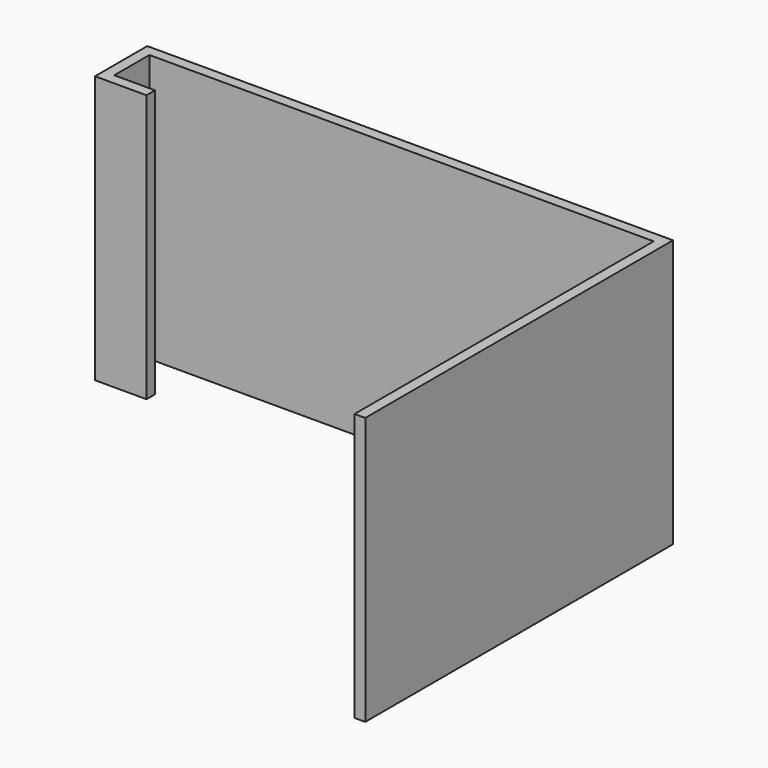
from build123d import *

# Parameters (mm, degrees)
F0_W     = 2
F0_H     = 2
F0_W_2   = 94.2241554609
F0_H_2   = 69.8690360831
F0_H_3   = 8.2058520482
F0_W_3   = 7.6125179348
F1_DEPTH = 50


with BuildPart() as f1:
    # F0 (on Top) → F1 (new body)
    with BuildSketch(Plane.XY):
        with Locations((-1, -1)):
            Rectangle(F0_W, F0_H)
        with Locations((-49.1120777304, -1)):
            Rectangle(F0_W_2, F0_H)
        with Locations((-1, -36.9345180416)):
            Rectangle(F0_W, F0_H_2)
        with Locations((-97.2241554609, -1)):
            Rectangle(F0_W, F0_H)
        with Locations((-97.2241554609, -6.1029260241)):
            Rectangle(F0_W, F0_H_3)
        with Locations((-92.4178964935, -11.2058520482)):
            Rectangle(F0_W_3, F0_H)
        with Locations((-97.2241554609, -11.2058520482)):
            Rectangle(F0_W, F0_H)
    extrude(amount=F1_DEPTH)


solid = f1.part
